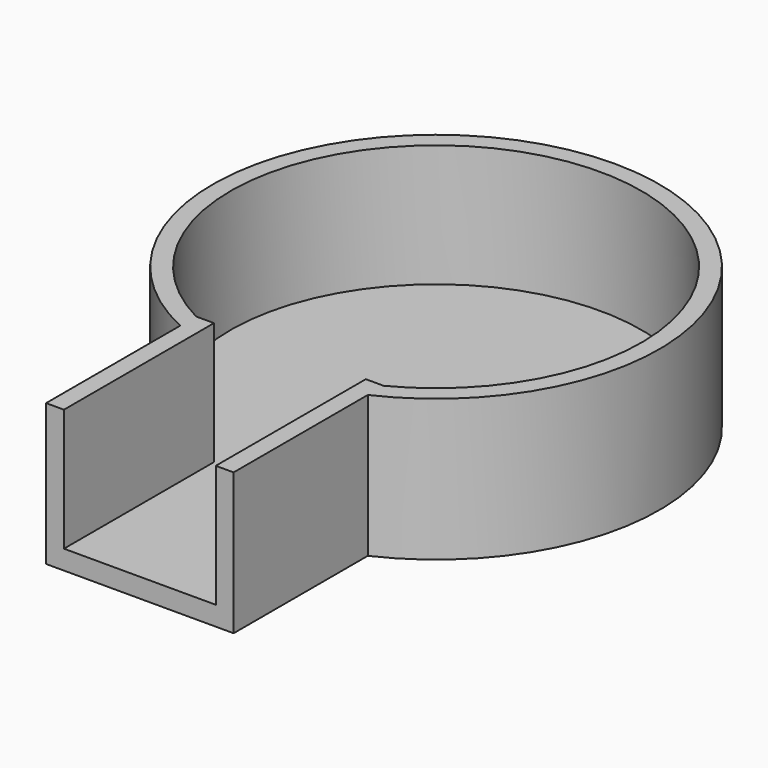
from build123d import *

# Parameters (mm, degrees)
F0_R     = 25
F1_DEPTH = 15.86
F2_R     = 23
F3_DEPTH = 13.7
F4_W     = 21
F4_H     = 21
F5_DEPTH = 15.86
F6_W     = 17
F6_H     = 21
F7_DEPTH = 13.7


with BuildPart() as f1:
    # F0 (on Top) → F1 (new body)
    with BuildSketch(Plane.XY):
        Circle(F0_R)
    extrude(amount=F1_DEPTH)

    # F2 (on face) → F3 (cut)
    with BuildSketch(Plane.XY.offset(15.86)):
        Circle(F2_R)
    extrude(amount=-F3_DEPTH, mode=Mode.SUBTRACT)

    # F4 (on Top) → F5 (join, through all)
    with BuildSketch(Plane.XY):
        with Locations((0, -30.9633819297)):
            Rectangle(F4_W, F4_H)
    extrude(amount=F5_DEPTH)

    # F6 (on face) → F7 (cut, through all)
    with BuildSketch(Plane.XY.offset(15.86)):
        with Locations((0, -30.9633819297)):
            Rectangle(F6_W, F6_H)
    extrude(amount=-F7_DEPTH, mode=Mode.SUBTRACT)


solid = f1.part
